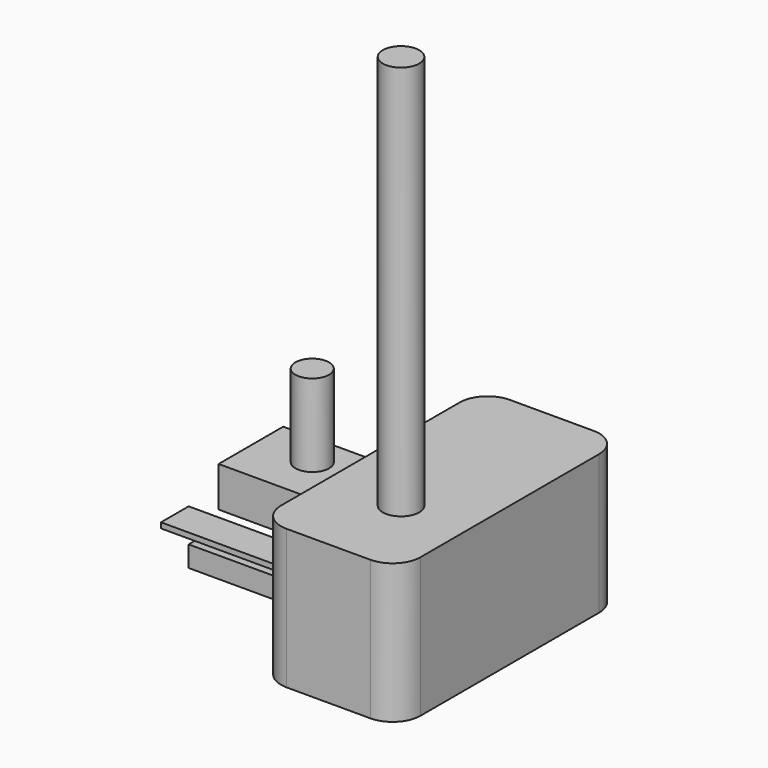
from build123d import *

# Parameters (mm, degrees)
F0_W     = 25.4
F0_H     = 50.8
F1_DEPTH = 25.4
F2_R     = 5.08
F3_R     = 3.31416
F4_DEPTH = 71.882
F5_W     = 6.293828
F5_H     = 0.982571
F5_W_2   = 5.419478
F5_H_2   = 3.787311
F5_W_3   = 14.692617
F5_H_3   = 7.307336
F6_DEPTH = 25.4
F7_R     = 3.064351
F8_DEPTH = 14.986


with BuildPart() as f1:
    # F0 (on Top) → F1 (new body)
    with BuildSketch(Plane.XY):
        with Locations((-12.7, 25.4)):
            Rectangle(F0_W, F0_H)
    extrude(amount=F1_DEPTH)

    # F2
    f2_edges = [f1.edges().sort_by_distance(p)[0] for p in [
        (0, 0, 12.7),
        (-25.4, 0, 12.7),
        (0, 50.8, 12.7),
        (-25.4, 50.8, 12.7),
    ]]
    fillet(f2_edges, radius=F2_R)

    # F3 (on face) → F4 (join)
    with BuildSketch(Plane.XY.offset(25.4)):
        with Locations((-12.072328, 15.729843)):
            Circle(F3_R)
    extrude(amount=F4_DEPTH)

    # F5 (on face) → F6 (join)
    with BuildSketch(Plane(origin=(-25.4, 0, 0), x_dir=(0, -1, 0), z_dir=(-1, 0, 0))):
        with Locations((-12.68953, 12.160792)):
            Rectangle(F5_W, F5_H)
        with Locations((-18.546183, 4.663679)):
            Rectangle(F5_W_2, F5_H_2)
        with Locations((-29.99346, 13.014776)):
            Rectangle(F5_W_3, F5_H_3)
    extrude(amount=F6_DEPTH)

    # F7 (on face) → F8 (join)
    with BuildSketch(Plane.XY.offset(16.668444)):
        with Locations((-40.764336, 31.40362)):
            Circle(F7_R)
    extrude(amount=F8_DEPTH)


solid = f1.part
